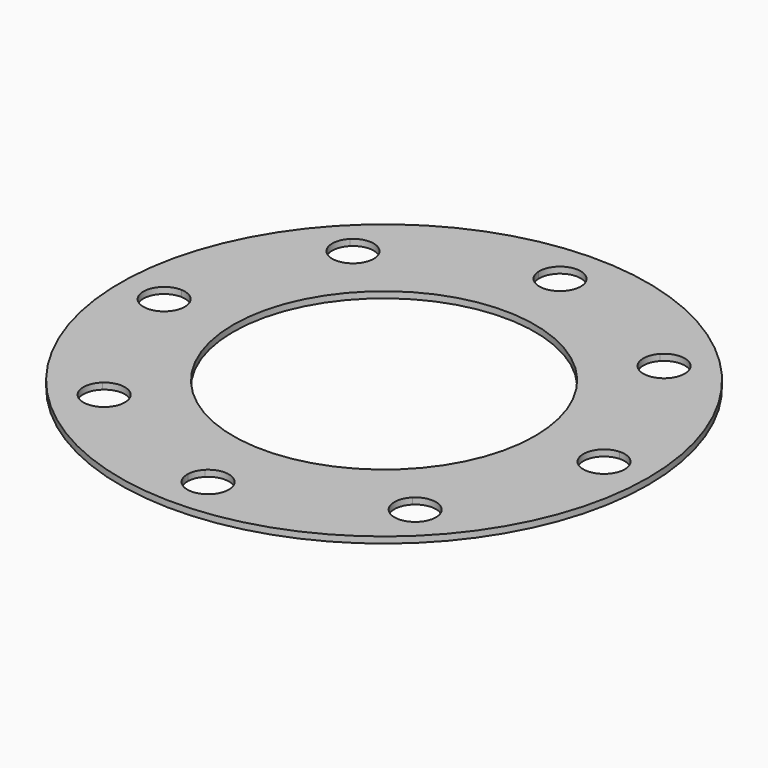
from build123d import *

# Parameters (mm, degrees)
F0_R     = 42
F0_R_2   = 24
F1_DEPTH = 1
F3_DEPTH = 25


with BuildPart() as f1:
    # F0 (on Top) → F1 (new body)
    with BuildSketch(Plane.XY):
        Circle(F0_R)
        Circle(F0_R_2, mode=Mode.SUBTRACT)
    extrude(amount=F1_DEPTH)

    # F2 (on Top) → F3 (cut)
    with BuildSketch(Plane.XY):
        with BuildLine():
            ThreePointArc((34.8444285714, 3.2963309195), (34.9610855095, 1.65), (35, 0))
            ThreePointArc((35, 0), (34.9610855095, -1.65), (34.8444285714, -3.2963309195))
            ThreePointArc((34.8444285714, -3.2963309195), (37.2777855788, -2.3878217809), (38.3, 0))
            ThreePointArc((38.3, 0), (37.2777855788, 2.3878217809), (34.8444285714, 3.2963309195))
        make_face()
        with BuildLine():
            ThreePointArc((24.7487373415, 24.7487373415), (25.8879468303, 23.5544944524), (26.9695896756, 22.3078737832))
            ThreePointArc((26.9695896756, 22.3078737832), (27.7669166522, 23.4143484744), (28.0487373415, 24.7487373415))
            ThreePointArc((28.0487373415, 24.7487373415), (27.7975397988, 26.0115926683), (27.0821897194, 27.0821897194))
            Line((27.0821897194, 27.0821897194), (24.7487373415, 24.7487373415))
        make_face()
        with BuildLine():
            ThreePointArc((22.3078737832, 26.9695896756), (23.5544944524, 25.8879468303), (24.7487373415, 24.7487373415))
            Line((24.7487373415, 24.7487373415), (27.0821897194, 27.0821897194))
            ThreePointArc((27.0821897194, 27.0821897194), (24.6709299969, 28.0478199439), (22.3078737832, 26.9695896756))
        make_face()
        with BuildLine():
            ThreePointArc((0, 35), (1.65, 34.9610855095), (3.2963309195, 34.8444285714))
            ThreePointArc((3.2963309195, 34.8444285714), (3.2990826023, 34.9221926553), (3.3, 35))
            ThreePointArc((3.3, 35), (-0.0778073447, 38.2990826023), (-3.2963309195, 34.8444285714))
            ThreePointArc((-3.2963309195, 34.8444285714), (-1.65, 34.9610855095), (0, 35))
        make_face()
        with BuildLine():
            Line((-27.0821897194, 27.0821897194), (-24.7487373415, 24.7487373415))
            ThreePointArc((-24.7487373415, 24.7487373415), (-23.5544944524, 25.8879468303), (-22.3078737832, 26.9695896756))
            ThreePointArc((-22.3078737832, 26.9695896756), (-24.6709299969, 28.0478199439), (-27.0821897194, 27.0821897194))
        make_face()
        with BuildLine():
            ThreePointArc((-26.9695896756, 22.3078737832), (-25.8879468303, 23.5544944524), (-24.7487373415, 24.7487373415))
            Line((-24.7487373415, 24.7487373415), (-27.0821897194, 27.0821897194))
            ThreePointArc((-27.0821897194, 27.0821897194), (-28.0478199439, 24.6709299969), (-26.9695896756, 22.3078737832))
        make_face()
        with BuildLine():
            ThreePointArc((-35, 0), (-34.9610855095, 1.65), (-34.8444285714, 3.2963309195))
            ThreePointArc((-34.8444285714, 3.2963309195), (-38.3, 0), (-34.8444285714, -3.2963309195))
            ThreePointArc((-34.8444285714, -3.2963309195), (-34.9610855095, -1.65), (-35, 0))
        make_face()
        with BuildLine():
            Line((-27.0821897194, -27.0821897194), (-24.7487373415, -24.7487373415))
            ThreePointArc((-24.7487373415, -24.7487373415), (-25.8879468303, -23.5544944524), (-26.9695896756, -22.3078737832))
            ThreePointArc((-26.9695896756, -22.3078737832), (-28.0478199439, -24.6709299969), (-27.0821897194, -27.0821897194))
        make_face()
        with BuildLine():
            ThreePointArc((-22.3078737832, -26.9695896756), (-23.5544944524, -25.8879468303), (-24.7487373415, -24.7487373415))
            Line((-24.7487373415, -24.7487373415), (-27.0821897194, -27.0821897194))
            ThreePointArc((-27.0821897194, -27.0821897194), (-24.6709299969, -28.0478199439), (-22.3078737832, -26.9695896756))
        make_face()
        with BuildLine():
            ThreePointArc((3.3, -35), (3.2990826023, -34.9221926553), (3.2963309195, -34.8444285714))
            ThreePointArc((3.2963309195, -34.8444285714), (1.65, -34.9610855095), (0, -35))
            ThreePointArc((0, -35), (-1.65, -34.9610855095), (-3.2963309195, -34.8444285714))
            ThreePointArc((-3.2963309195, -34.8444285714), (-0.0778073447, -38.2990826023), (3.3, -35))
        make_face()
        with BuildLine():
            Line((27.0821897194, -27.0821897194), (24.7487373415, -24.7487373415))
            ThreePointArc((24.7487373415, -24.7487373415), (23.5544944524, -25.8879468303), (22.3078737832, -26.9695896756))
            ThreePointArc((22.3078737832, -26.9695896756), (24.6709299969, -28.0478199439), (27.0821897194, -27.0821897194))
        make_face()
        with BuildLine():
            ThreePointArc((28.0487373415, -24.7487373415), (27.7669166522, -23.4143484744), (26.9695896756, -22.3078737832))
            ThreePointArc((26.9695896756, -22.3078737832), (25.8879468303, -23.5544944524), (24.7487373415, -24.7487373415))
            Line((24.7487373415, -24.7487373415), (27.0821897194, -27.0821897194))
            ThreePointArc((27.0821897194, -27.0821897194), (27.7975397988, -26.0115926683), (28.0487373415, -24.7487373415))
        make_face()
        with BuildLine():
            ThreePointArc((34.8444285714, -3.2963309195), (34.9610855095, -1.65), (35, 0))
            ThreePointArc((35, 0), (34.9610855095, 1.65), (34.8444285714, 3.2963309195))
            ThreePointArc((34.8444285714, 3.2963309195), (31.7, 0), (34.8444285714, -3.2963309195))
        make_face()
        with BuildLine():
            ThreePointArc((22.4152849636, 22.4152849636), (24.6709299969, 21.4496547392), (26.9695896756, 22.3078737832))
            ThreePointArc((26.9695896756, 22.3078737832), (25.8879468303, 23.5544944524), (24.7487373415, 24.7487373415))
            Line((24.7487373415, 24.7487373415), (22.4152849636, 22.4152849636))
        make_face()
        with BuildLine():
            Line((22.4152849636, 22.4152849636), (24.7487373415, 24.7487373415))
            ThreePointArc((24.7487373415, 24.7487373415), (23.5544944524, 25.8879468303), (22.3078737832, 26.9695896756))
            ThreePointArc((22.3078737832, 26.9695896756), (21.4496547392, 24.6709299969), (22.4152849636, 22.4152849636))
        make_face()
        with BuildLine():
            ThreePointArc((-2.3334523779, 32.6665476221), (1.1906196407, 31.9222695259), (3.2963309195, 34.8444285714))
            ThreePointArc((3.2963309195, 34.8444285714), (1.65, 34.9610855095), (0, 35))
            Line((0, 35), (-2.3334523779, 32.6665476221))
        make_face()
        with BuildLine():
            Line((-2.3334523779, 32.6665476221), (0, 35))
            ThreePointArc((0, 35), (-1.65, 34.9610855095), (-3.2963309195, 34.8444285714))
            ThreePointArc((-3.2963309195, 34.8444285714), (-3.0181793107, 33.6656111329), (-2.3334523779, 32.6665476221))
        make_face()
        with BuildLine():
            Line((-24.7487373415, 24.7487373415), (-22.4152849636, 22.4152849636))
            ThreePointArc((-22.4152849636, 22.4152849636), (-21.6999348842, 23.4858820147), (-21.4487373415, 24.7487373415))
            ThreePointArc((-21.4487373415, 24.7487373415), (-21.6710068674, 25.9393569822), (-22.3078737832, 26.9695896756))
            ThreePointArc((-22.3078737832, 26.9695896756), (-23.5544944524, 25.8879468303), (-24.7487373415, 24.7487373415))
        make_face()
        with BuildLine():
            ThreePointArc((-26.9695896756, 22.3078737832), (-24.6709299969, 21.4496547392), (-22.4152849636, 22.4152849636))
            Line((-22.4152849636, 22.4152849636), (-24.7487373415, 24.7487373415))
            ThreePointArc((-24.7487373415, 24.7487373415), (-25.8879468303, 23.5544944524), (-26.9695896756, 22.3078737832))
        make_face()
        with BuildLine():
            Line((-35, 0), (-32.6665476221, 2.3334523779))
            ThreePointArc((-32.6665476221, 2.3334523779), (-33.6656111329, 3.0181793107), (-34.8444285714, 3.2963309195))
            ThreePointArc((-34.8444285714, 3.2963309195), (-34.9610855095, 1.65), (-35, 0))
        make_face()
        with BuildLine():
            ThreePointArc((-34.8444285714, -3.2963309195), (-33.6656111329, -3.0181793107), (-32.6665476221, -2.3334523779))
            Line((-32.6665476221, -2.3334523779), (-35, 0))
            ThreePointArc((-35, 0), (-34.9610855095, -1.65), (-34.8444285714, -3.2963309195))
        make_face()
        with BuildLine():
            Line((-24.7487373415, -24.7487373415), (-22.4152849636, -22.4152849636))
            ThreePointArc((-22.4152849636, -22.4152849636), (-24.6709299969, -21.4496547392), (-26.9695896756, -22.3078737832))
            ThreePointArc((-26.9695896756, -22.3078737832), (-25.8879468303, -23.5544944524), (-24.7487373415, -24.7487373415))
        make_face()
        with BuildLine():
            ThreePointArc((-21.4487373415, -24.7487373415), (-21.6999348842, -23.4858820147), (-22.4152849636, -22.4152849636))
            Line((-22.4152849636, -22.4152849636), (-24.7487373415, -24.7487373415))
            ThreePointArc((-24.7487373415, -24.7487373415), (-23.5544944524, -25.8879468303), (-22.3078737832, -26.9695896756))
            ThreePointArc((-22.3078737832, -26.9695896756), (-21.6710068674, -25.9393569822), (-21.4487373415, -24.7487373415))
        make_face()
        with BuildLine():
            Line((0, -35), (-2.3334523779, -32.6665476221))
            ThreePointArc((-2.3334523779, -32.6665476221), (-3.0181793107, -33.6656111329), (-3.2963309195, -34.8444285714))
            ThreePointArc((-3.2963309195, -34.8444285714), (-1.65, -34.9610855095), (0, -35))
        make_face()
        with BuildLine():
            ThreePointArc((0, -35), (1.65, -34.9610855095), (3.2963309195, -34.8444285714))
            ThreePointArc((3.2963309195, -34.8444285714), (1.1906196407, -31.9222695259), (-2.3334523779, -32.6665476221))
            Line((-2.3334523779, -32.6665476221), (0, -35))
        make_face()
        with BuildLine():
            ThreePointArc((22.3078737832, -26.9695896756), (23.5544944524, -25.8879468303), (24.7487373415, -24.7487373415))
            Line((24.7487373415, -24.7487373415), (22.4152849636, -22.4152849636))
            ThreePointArc((22.4152849636, -22.4152849636), (21.4496547392, -24.6709299969), (22.3078737832, -26.9695896756))
        make_face()
        with BuildLine():
            ThreePointArc((24.7487373415, -24.7487373415), (25.8879468303, -23.5544944524), (26.9695896756, -22.3078737832))
            ThreePointArc((26.9695896756, -22.3078737832), (24.6709299969, -21.4496547392), (22.4152849636, -22.4152849636))
            Line((22.4152849636, -22.4152849636), (24.7487373415, -24.7487373415))
        make_face()
        with BuildLine():
            ThreePointArc((-31.7, 0), (-31.9511975427, 1.2628553268), (-32.6665476221, 2.3334523779))
            Line((-32.6665476221, 2.3334523779), (-35, 0))
            Line((-35, 0), (-32.6665476221, -2.3334523779))
            ThreePointArc((-32.6665476221, -2.3334523779), (-31.9511975427, -1.2628553268), (-31.7, 0))
        make_face()
    extrude(amount=F3_DEPTH, mode=Mode.SUBTRACT)


solid = f1.part
